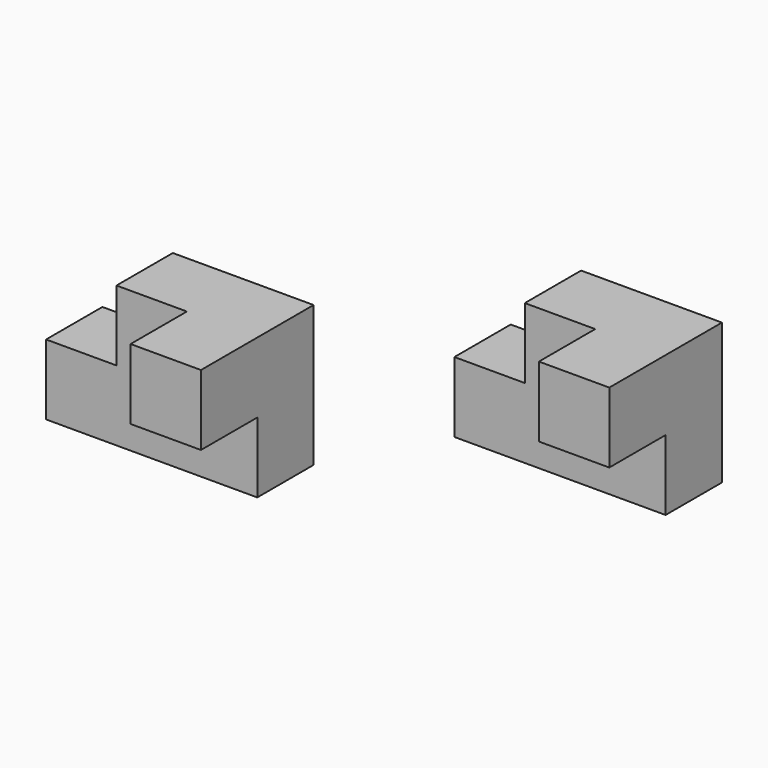
from build123d import *

# Parameters (mm, degrees)
F1_DEPTH = 10
F2_W     = 10
F2_H     = 10
F3_DEPTH = 10


with BuildPart() as f1:
    # F0 (on Front) → F1 (new body)
    with BuildSketch(Plane.XZ):
        Polygon((0, 10), (0, 0), (30, 0), (30, 20), (10, 20), (10, 10), align=None)
    extrude(amount=F1_DEPTH)

    # F2 (on face) → F3 (join)
    with BuildSketch(Plane.XZ.offset(10)):
        with Locations((25, 15)):
            Rectangle(F2_W, F2_H)
    extrude(amount=F3_DEPTH)


with BuildPart() as f4_1:
    # F4: copy of F1
    add(f1.part.moved(Location((50, 10, 10))))


solid = Compound([f1.part, f4_1.part])
